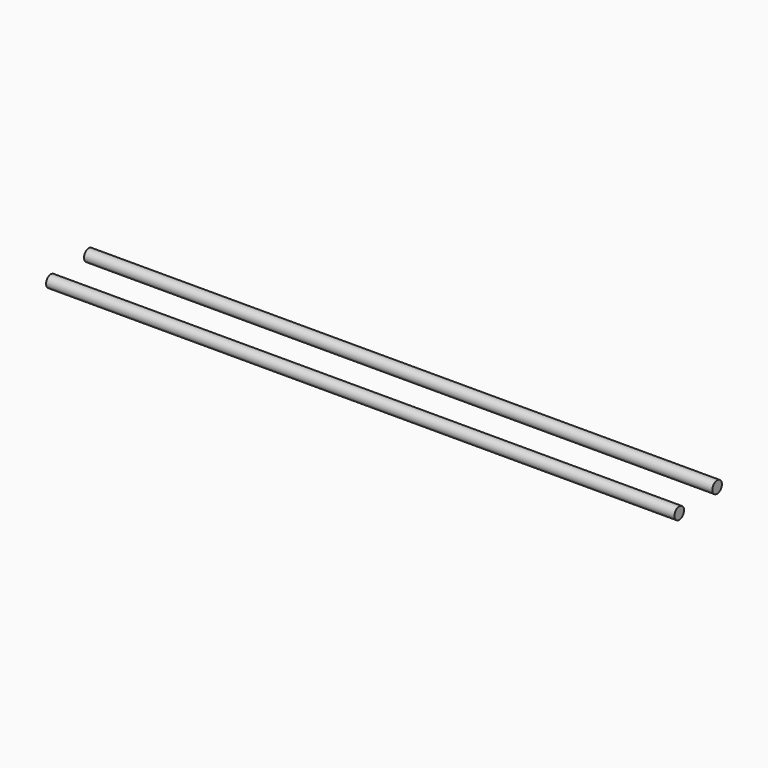
from build123d import *

# Parameters (mm, degrees)
CYLINDER016_R               = 6
CYLINDER016_DEPTH           = 630
CYLINDER016_PITCH_ANGLE     = -90
CYLINDER016_PLACEMENT_ANGLE = -180
CYLINDER026_R               = 6
CYLINDER026_DEPTH           = 630
CYLINDER026_PITCH_ANGLE     = -90
CYLINDER026_PLACEMENT_ANGLE = -180


with BuildPart() as cylinder016:
    # Cylinder016 → Cylinder016 (new body)
    with BuildSketch(Plane.XY):
        Circle(CYLINDER016_R)
    extrude(amount=CYLINDER016_DEPTH)


with BuildPart() as cylinder016_1:
    # Cylinder016 pitch: moved
    add(cylinder016.part.rotate(Axis((0, 0, 0), (0, 1, 0)), CYLINDER016_PITCH_ANGLE))


with BuildPart() as cylinder016_2:
    # Cylinder016 placement: moved
    add(cylinder016_1.part.moved(Location((38, 290, 624))).rotate(Axis((38, 290, 624), (0, 0, 1)), CYLINDER016_PLACEMENT_ANGLE))


with BuildPart() as fusion046:
    # Cylinder026 → Cylinder026 (new body)
    with BuildSketch(Plane.XY):
        Circle(CYLINDER026_R)
    extrude(amount=CYLINDER026_DEPTH)


with BuildPart() as fusion046_1:
    # Cylinder026 pitch: moved
    add(fusion046.part.rotate(Axis((0, 0, 0), (0, 1, 0)), CYLINDER026_PITCH_ANGLE))


with BuildPart() as fusion046_2:
    # Cylinder026 placement: moved
    add(fusion046_1.part.moved(Location((36, 340, 626))).rotate(Axis((36, 340, 626), (0, 0, 1)), CYLINDER026_PLACEMENT_ANGLE))

    # Fusion046: union Cylinder016
    add(cylinder016_2.part)


solid = fusion046_2.part
